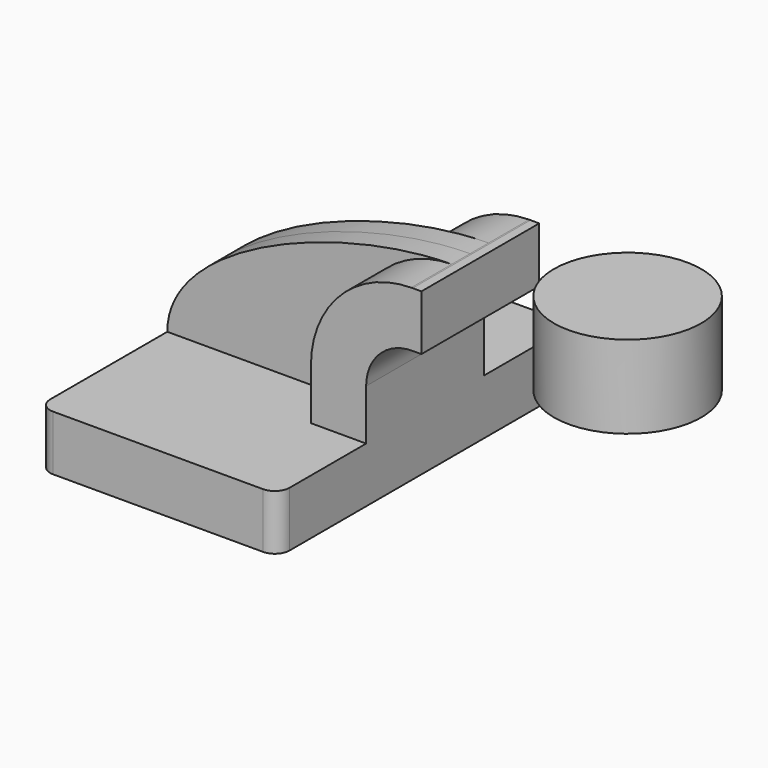
from build123d import *

# Parameters (mm, degrees)
F1_DEPTH = 63.5
F2_DEPTH = 25.4
F3_DEPTH = 7.9375
F5_R     = 5.08


with BuildPart() as f1:
    # F0 (on Front) → F1 (new body, symmetric)
    with BuildSketch(Plane.XZ):
        Polygon((-41.275, 9.525), (-41.275, -9.525), (41.275, -9.525), (41.275, 9.525), (22.225, 9.525), align=None)
    extrude(amount=F1_DEPTH, both=True)

    # F0 (on Front) → F2 (join, symmetric)
    with BuildSketch(Plane.XZ):
        with BuildLine():
            Line((22.225, 9.525), (41.275, 9.525))
            Line((41.275, 9.525), (41.275, 27.000555))
            ThreePointArc((41.275, 27.000555), (45.96226, 38.263329), (57.256114, 42.8752))
            Line((57.256114, 42.8752), (60.325, 42.8752))
            Line((60.325, 42.8752), (60.325, 61.9252))
            Line((60.325, 61.9252), (57.307393, 61.9252))
            add(Edge.make_bspline(
                [(56.818173, 61.923978), (56.981622, 61.924792), (57.144697, 61.9252), (57.307393, 61.9252)],
                knots=[111.172952, 111.172952, 111.172952, 111.172952, 111.643491, 111.643491, 111.643491, 111.643491], degree=3))
            ThreePointArc((56.818173, 61.923978), (32.337254, 51.57866), (22.225, 27.000555))
            Line((22.225, 27.000555), (22.225, 9.525))
        make_face()
    extrude(amount=F2_DEPTH, both=True)

    # F0 (on Front) → F3 (join, symmetric)
    with BuildSketch(Plane.XZ):
        with BuildLine():
            add(Edge.make_bspline(
                [(-41.275, 9.525), (-41.275, 38.851558), (18.200547, 61.731636), (56.818173, 61.923978)],
                knots=[0, 0, 0, 0, 111.172952, 111.172952, 111.172952, 111.172952], degree=3))
            Line((-41.275, 9.525), (22.225, 9.525))
            Line((22.225, 9.525), (22.225, 27.000555))
            ThreePointArc((22.225, 27.000555), (32.337254, 51.57866), (56.818173, 61.923978))
        make_face()
    extrude(amount=F3_DEPTH, both=True)

    # F5
    f5_edges = [f1.edges().sort_by_distance(p)[0] for p in [
        (41.275, -63.5, 0),
        (-41.275, -63.5, 0),
        (41.275, 63.5, 0),
        (-41.275, 63.5, 0),
    ]]
    fillet(f5_edges, radius=F5_R)


with BuildPart() as f4:
    # F0 (on Front) → F4 (revolve)
    with BuildSketch(Plane.XZ):
        Polygon((85.725, 66.675), (85.725, 61.9252), (85.725, 42.8752), (85.725, 38.1), (111.125, 38.1), (111.125, 66.675), align=None)
    revolve(axis=Axis((111.125, 0, 52.3875), (0, 0, 1)))


solid = Compound([f1.part, f4.part])
